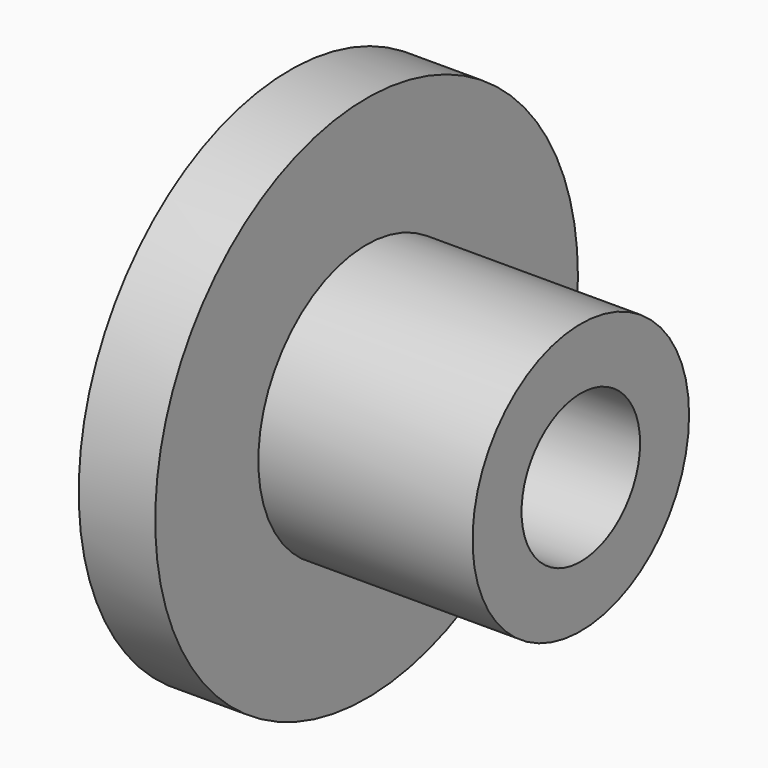
from build123d import *

# Parameters (mm, degrees)
F0_W   = 23.3151614666
F0_H   = 39.2676517367
F0_H_2 = 18.6521392316
F0_W_2 = 65.2824789286


with BuildPart() as f1:
    # F0 (on Top) → F1 (revolve)
    with BuildSketch(Plane.XY):
        with Locations((11.6575807333, 60.8648695052)):
            Rectangle(F0_W, F0_H)
        with Locations((11.6575807333, 31.904974021)):
            Rectangle(F0_W, F0_H_2)
        with Locations((55.9564009309, 31.904974021)):
            Rectangle(F0_W_2, F0_H_2)
    revolve(axis=Axis((44.2988201976, 0, 0), (1, 0, 0)))


solid = f1.part
